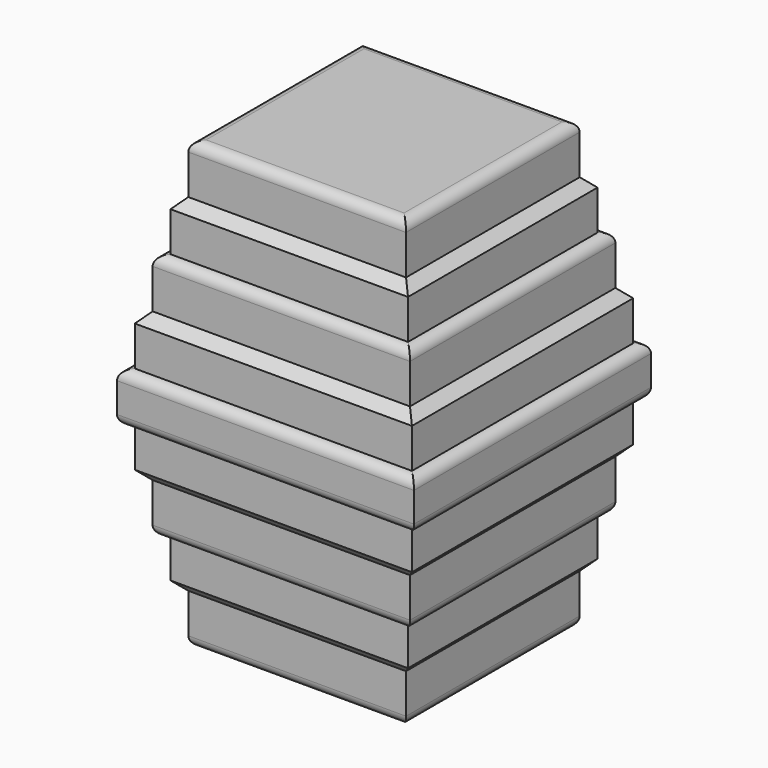
from build123d import *

# Parameters (mm, degrees)
F0_W      = 152.3159295321
F0_H      = 151.994921267
F1_DEPTH  = 25.4
F2_R      = 5.08
F3_R      = 5.08
F4_DEPTH  = 25.4
F5_SIZE   = 5.08
F6_DEPTH  = 25.4
F7_SIZE   = 5.08
F8_DEPTH  = 25.4
F9_R      = 5.08
F10_DEPTH = 25.4
F11_R     = 5.08
F12_DEPTH = 25.4
F13_SIZE  = 5.08
F14_DEPTH = 25.4
F15_SIZE  = 5.08
F16_DEPTH = 25.4
F17_R     = 5.08
F18_DEPTH = 25.4
F19_R     = 5.08


with BuildPart() as f1:
    # F0 (on Top) → F1 (new body)
    with BuildSketch(Plane.XY):
        with Locations((0.3210008144, -0.3210045397)):
            Rectangle(F0_W, F0_H)
    extrude(amount=F1_DEPTH)

    # F2
    f2_edges = [f1.edges().sort_by_distance(p)[0] for p in [
        (0.321001, 75.676456, 25.4),
        (-75.836964, -0.321005, 25.4),
        (0.321001, -76.318465, 25.4),
        (76.478966, -0.321005, 25.4),
    ]]
    fillet(f2_edges, radius=F2_R)

    # F3
    f3_edges = [f1.edges().sort_by_distance(p)[0] for p in [
        (0.321001, 75.676456, 0),
        (-75.836964, -0.321005, 0),
        (0.321001, -76.318465, 0),
        (76.478966, -0.321005, 0),
    ]]
    fillet(f3_edges, radius=F3_R)

    # F4 (add): a face of the model
    f4_faces = [f1.faces().sort_by_distance(p)[0] for p in [
        (0.3210008144, -0.3210045397, 0),
    ]]
    extrude(f4_faces, amount=F4_DEPTH)

    # F5
    f5_edges = [f1.edges().sort_by_distance(p)[0] for p in [
        (0.321001, 70.596456, -25.4),
        (71.398966, -0.321005, -25.4),
        (-70.756964, -0.321005, -25.4),
        (0.321001, -71.238465, -25.4),
    ]]
    chamfer(f5_edges, length=F5_SIZE)

    # F6 (add): a face of the model
    f6_faces = [f1.faces().sort_by_distance(p)[0] for p in [
        (0.3210008144, -0.3210045397, 25.4),
    ]]
    extrude(f6_faces, amount=F6_DEPTH)

    # F7
    f7_edges = [f1.edges().sort_by_distance(p)[0] for p in [
        (0.321001, 70.596456, 50.8),
        (71.398966, -0.321005, 50.8),
        (-70.756964, -0.321005, 50.8),
        (0.321001, -71.238465, 50.8),
    ]]
    chamfer(f7_edges, length=F7_SIZE)

    # F8 (add): a face of the model
    f8_faces = [f1.faces().sort_by_distance(p)[0] for p in [
        (0.3210008144, -0.3210045397, 50.8),
    ]]
    extrude(f8_faces, amount=F8_DEPTH)

    # F9
    f9_edges = [f1.edges().sort_by_distance(p)[0] for p in [
        (0.321001, 65.516456, 76.2),
        (66.318966, -0.321005, 76.2),
        (-65.676964, -0.321005, 76.2),
        (0.321001, -66.158465, 76.2),
    ]]
    fillet(f9_edges, radius=F9_R)

    # F10 (add): a face of the model
    f10_faces = [f1.faces().sort_by_distance(p)[0] for p in [
        (0.3210008144, -0.3210045397, -25.4),
    ]]
    extrude(f10_faces, amount=F10_DEPTH)

    # F11
    f11_edges = [f1.edges().sort_by_distance(p)[0] for p in [
        (0.321001, 65.516456, -50.8),
        (66.318966, -0.321005, -50.8),
        (-65.676964, -0.321005, -50.8),
        (0.321001, -66.158465, -50.8),
    ]]
    fillet(f11_edges, radius=F11_R)

    # F12 (add): a face of the model
    f12_faces = [f1.faces().sort_by_distance(p)[0] for p in [
        (0.3210008144, -0.3210045397, -50.8),
    ]]
    extrude(f12_faces, amount=F12_DEPTH)

    # F13
    f13_edges = [f1.edges().sort_by_distance(p)[0] for p in [
        (0.321001, 60.436456, -76.2),
        (61.238966, -0.321005, -76.2),
        (-60.596964, -0.321005, -76.2),
        (0.321001, -61.078465, -76.2),
    ]]
    chamfer(f13_edges, length=F13_SIZE)

    # F14 (add): a face of the model
    f14_faces = [f1.faces().sort_by_distance(p)[0] for p in [
        (0.3210008144, -0.3210045397, 76.2),
    ]]
    extrude(f14_faces, amount=F14_DEPTH)

    # F15
    f15_edges = [f1.edges().sort_by_distance(p)[0] for p in [
        (0.321001, 60.436456, 101.6),
        (61.238966, -0.321005, 101.6),
        (-60.596964, -0.321005, 101.6),
        (0.321001, -61.078465, 101.6),
    ]]
    chamfer(f15_edges, length=F15_SIZE)

    # F16 (add): a face of the model
    f16_faces = [f1.faces().sort_by_distance(p)[0] for p in [
        (0.3210008144, -0.3210045397, 101.6),
    ]]
    extrude(f16_faces, amount=F16_DEPTH)

    # F17
    f17_edges = [f1.edges().sort_by_distance(p)[0] for p in [
        (0.321001, 55.356456, 127),
        (56.158966, -0.321005, 127),
        (-55.516964, -0.321005, 127),
        (0.321001, -55.998465, 127),
    ]]
    fillet(f17_edges, radius=F17_R)

    # F18 (add): a face of the model
    f18_faces = [f1.faces().sort_by_distance(p)[0] for p in [
        (0.3210008144, -0.3210045397, -76.2),
    ]]
    extrude(f18_faces, amount=F18_DEPTH)

    # F19
    f19_edges = [f1.edges().sort_by_distance(p)[0] for p in [
        (0.321001, 55.356456, -101.6),
        (56.158966, -0.321005, -101.6),
        (-55.516964, -0.321005, -101.6),
        (0.321001, -55.998465, -101.6),
    ]]
    fillet(f19_edges, radius=F19_R)


solid = f1.part
